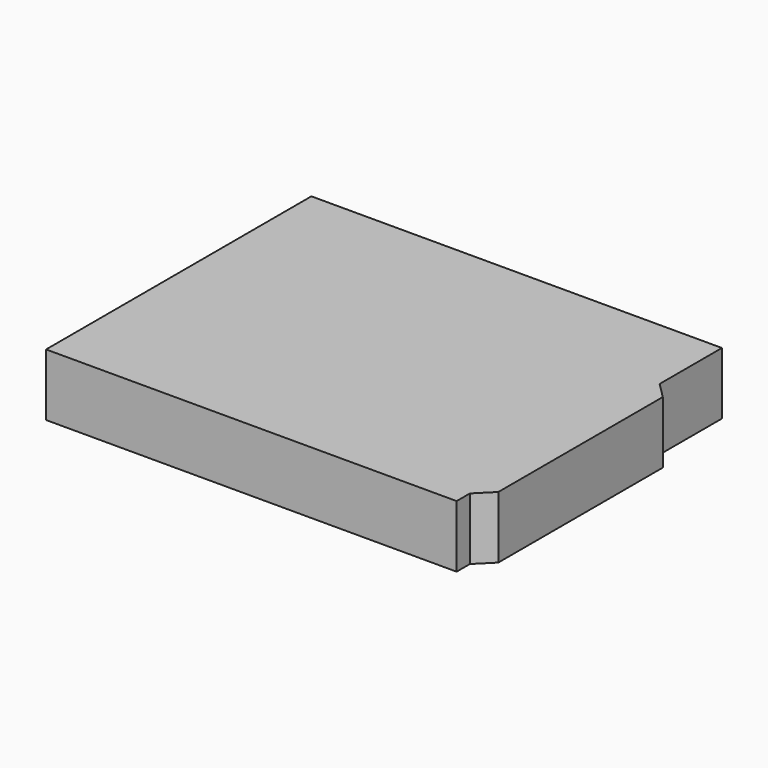
from build123d import *

# Parameters (mm, degrees)
F1_DEPTH = 10


with BuildPart() as f1:
    # F0 (on Top) → F1 (new body)
    with BuildSketch(Plane.XY):
        Polygon((33.02, 26.67), (-33.02, 26.67), (-33.02, -26.67), (33.02, -26.67), (33.02, -24.003), (33.02, 14.147), align=None)
        Polygon((35.56, 11.607), (33.02, 14.147), (33.02, -24.003), (35.56, -21.463), align=None)
    extrude(amount=F1_DEPTH)


solid = f1.part
